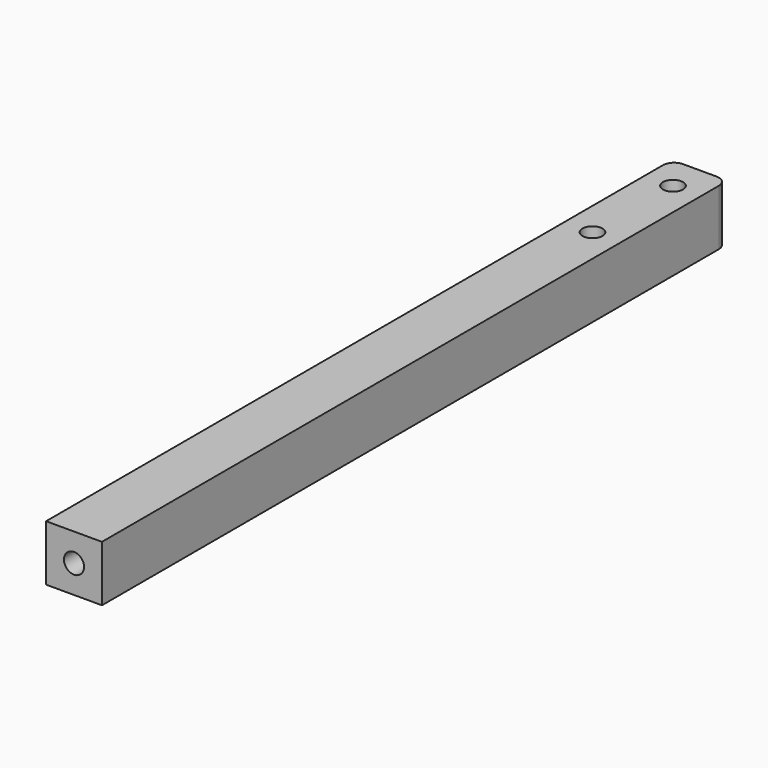
from build123d import *

# Parameters (mm, degrees)
F0_R     = 0.9
F1_DEPTH = 5
F3_D     = 1.8
F3_DEPTH = 10
F3_TIP   = 0.5407745571


with BuildPart() as f1:
    # F0 (on Top) → F1 (new body)
    with BuildSketch(Plane.XY):
        with BuildLine():
            ThreePointArc((2.5, 21.7272822881), (2.2071067812, 22.4343890692), (1.5, 22.7272822881))
            Line((1.5, 22.7272822881), (-1.5, 22.7272822881))
            ThreePointArc((-1.5, 22.7272822881), (-2.2071067812, 22.4343890692), (-2.5, 21.7272822881))
            Line((-2.5, 21.7272822881), (-2.5, -47.2727177119))
            Line((-2.5, -47.2727177119), (2.5, -47.2727177119))
            Line((2.5, -47.2727177119), (2.5, 21.7272822881))
        make_face()
        with Locations((0, 10.7272822881)):
            Circle(F0_R, mode=Mode.SUBTRACT)
        with Locations((0, 19.7272822881)):
            Circle(F0_R, mode=Mode.SUBTRACT)
    extrude(amount=F1_DEPTH)

    # F3
    with Locations(Plane.XZ.offset(47.2727177119)):
        with Locations((0, 2.5)):
            Hole(F3_D / 2, depth=F3_DEPTH)
            with Locations((0, 0, -(F3_DEPTH + F3_TIP / 2))):  # 118° drill point
                Cone(0, F3_D / 2, F3_TIP, mode=Mode.SUBTRACT)


solid = f1.part
